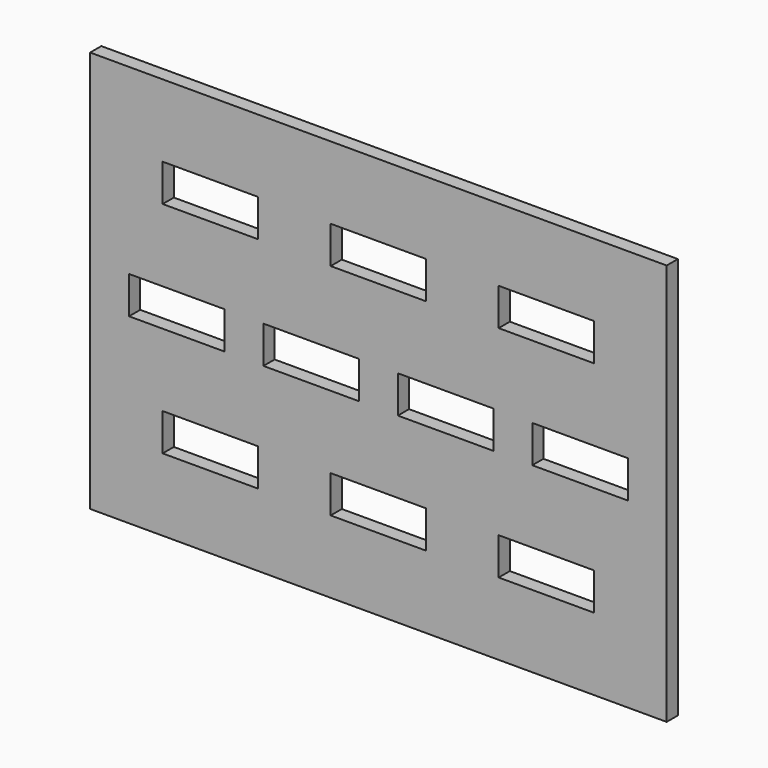
from build123d import *

# Parameters (mm, degrees)
F0_W     = 247.5
F0_H     = 172.5
F0_W_2   = 41
F0_H_2   = 16
F1_DEPTH = 6


with BuildPart() as f1:
    # F0 (on Front) → F1 (new body)
    with BuildSketch(Plane.XZ):
        Rectangle(F0_W, F0_H)
        with Locations((-72.125, -47.125)):
            Rectangle(F0_W_2, F0_H_2, mode=Mode.SUBTRACT)
        with Locations((0, -47.125)):
            Rectangle(F0_W_2, F0_H_2, mode=Mode.SUBTRACT)
        with Locations((72.125, -47.125)):
            Rectangle(F0_W_2, F0_H_2, mode=Mode.SUBTRACT)
        with Locations((-86.55, 0)):
            Rectangle(F0_W_2, F0_H_2, mode=Mode.SUBTRACT)
        with Locations((-28.85, 0)):
            Rectangle(F0_W_2, F0_H_2, mode=Mode.SUBTRACT)
        with Locations((-72.125, 47.125)):
            Rectangle(F0_W_2, F0_H_2, mode=Mode.SUBTRACT)
        with Locations((28.85, 0)):
            Rectangle(F0_W_2, F0_H_2, mode=Mode.SUBTRACT)
        with Locations((86.55, 0)):
            Rectangle(F0_W_2, F0_H_2, mode=Mode.SUBTRACT)
        with Locations((0, 47.125)):
            Rectangle(F0_W_2, F0_H_2, mode=Mode.SUBTRACT)
        with Locations((72.125, 47.125)):
            Rectangle(F0_W_2, F0_H_2, mode=Mode.SUBTRACT)
    extrude(amount=F1_DEPTH)


solid = f1.part
